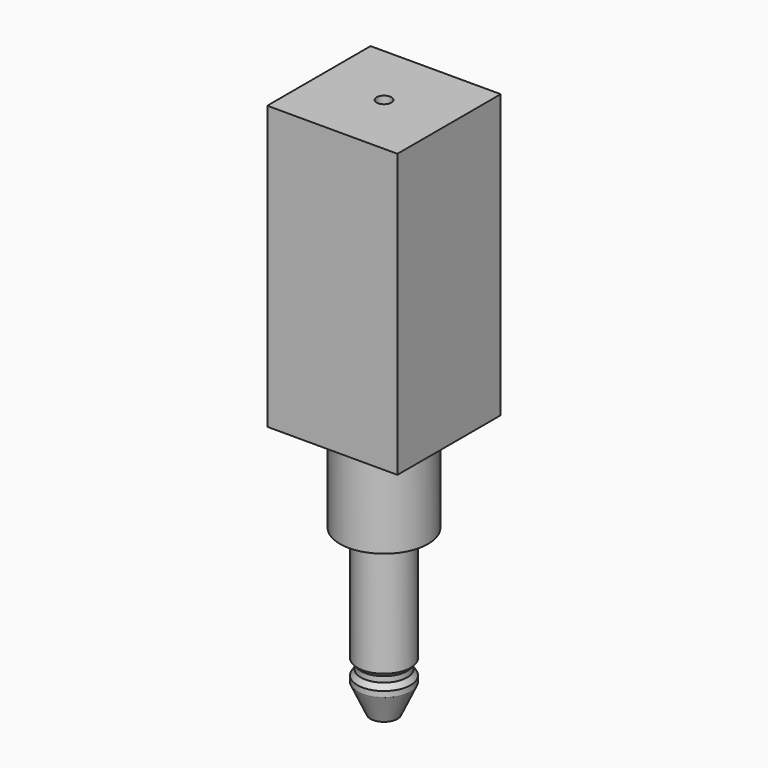
from build123d import *

# Parameters (mm, degrees)
F0_W     = 2.35
F0_H     = 14.5
F4_R     = 0.65
F5_DEPTH = 22.801
F6_W     = 11.5107307211
F6_H     = 11.4176999778
F6_R     = 3.9
F6_R_2   = 0.65
F7_DEPTH = 25


with BuildPart() as f1:
    # F0 (on Front) → F1 (revolve)
    with BuildSketch(Plane.XZ):
        Polygon((3.9, 11.4), (0, 11.4), (0, 3.1), (2.35, 3.1), (3.9, 3.1), align=None)
        with Locations((1.175, -4.15)):
            Rectangle(F0_W, F0_H)
    revolve(axis=Axis((0, 0, 0), (0, 0, -1)))

    # F2 (on Front) → F3 (revolve, cut)
    with BuildSketch(Plane.XZ):
        Polygon((2.05, -7.9), (2.35, -8.4), (2.35, -7.05), (2.05, -7.4), align=None)
        Polygon((2.35, -8.9), (1.2, -11.4), (2.35, -11.4), align=None)
    revolve(axis=Axis((0, 0, 0), (0, 0, -1)), mode=Mode.SUBTRACT)

    # F4 (on face) → F5 (cut, through all)
    with BuildSketch(Plane(origin=(0, 0, -11.4), x_dir=(1, 0, 0), z_dir=(0, 0, -1))):
        Circle(F4_R)
    extrude(amount=-F5_DEPTH, mode=Mode.SUBTRACT)

    # F6 (on face) → F7 (join)
    with BuildSketch(Plane.XY.offset(11.4)):
        Rectangle(F6_W, F6_H)
        Circle(F6_R, mode=Mode.SUBTRACT)
        Circle(F6_R)
        Circle(F6_R_2, mode=Mode.SUBTRACT)
    extrude(amount=F7_DEPTH)


solid = f1.part
